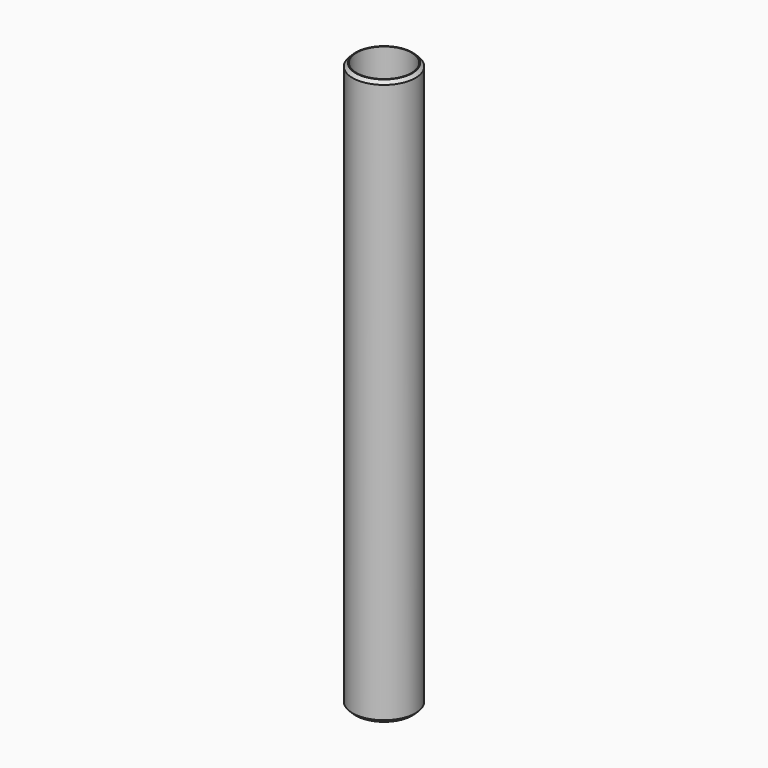
from build123d import *

# Parameters (mm, degrees)
F0_R     = 50.8
F0_R_2   = 44.45
F1_DEPTH = 914.4
F2_SIZE  = 5.08
F3_SIZE  = 5.08


with BuildPart() as f1:
    # F0 (on Top) → F1 (new body)
    with BuildSketch(Plane.XY):
        Circle(F0_R)
        Circle(F0_R_2, mode=Mode.SUBTRACT)
    extrude(amount=-F1_DEPTH)

    # F2
    f2_edges = [f1.edges().sort_by_distance(p)[0] for p in [
        (-50.8, 0, 0),
    ]]
    chamfer(f2_edges, length=F2_SIZE)

    # F3
    f3_edges = [f1.edges().sort_by_distance(p)[0] for p in [
        (-50.8, 0, -914.4),
    ]]
    chamfer(f3_edges, length=F3_SIZE)


solid = f1.part
